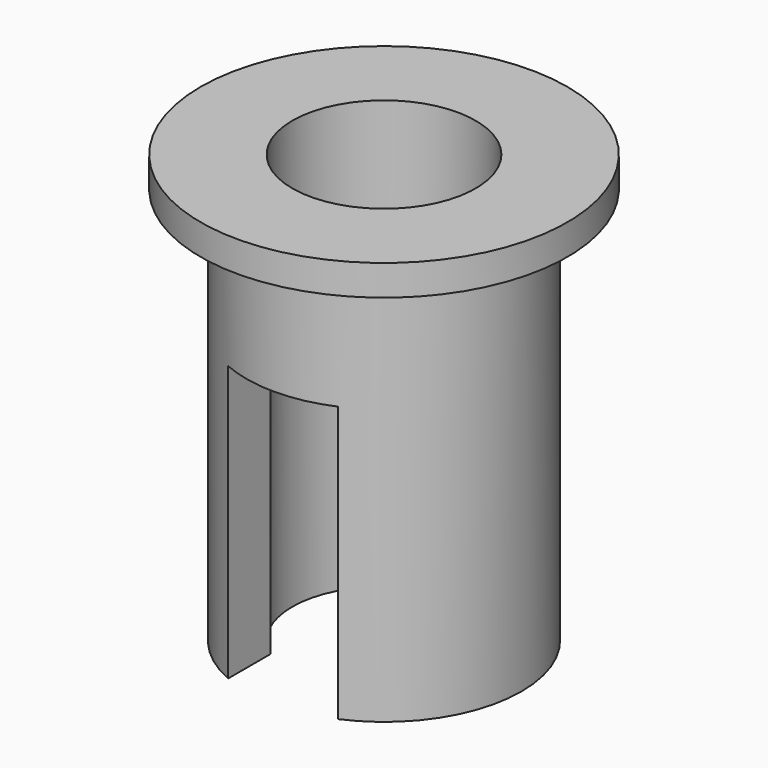
from build123d import *

# Parameters (mm, degrees)
F2_W     = 1.8
F2_H     = 5.0446866744
F3_DEPTH = 12.5


with BuildPart() as f1:
    # F0 (on Front) → F1 (revolve)
    with BuildSketch(Plane.XZ):
        Polygon((-2.25, 0), (-1.5, 0), (-1.5, 7), (-3, 7), (-3, 6.5), (-2.25, 6.5), align=None)
    revolve(axis=Axis((0, 0, 1.9970234007), (0, 0, 1)))

    # F2 (on Front) → F3 (cut, symmetric)
    with BuildSketch(Plane.XZ):
        with Locations((0, 1.9776566628)):
            Rectangle(F2_W, F2_H)
    extrude(amount=F3_DEPTH, both=True, mode=Mode.SUBTRACT)


solid = f1.part
